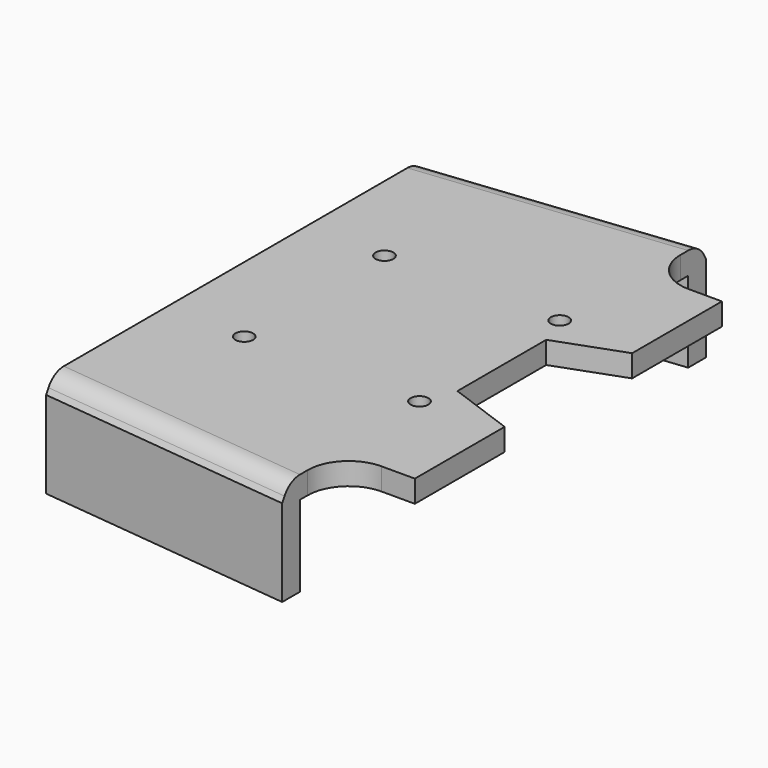
from build123d import *

# Parameters (mm, degrees)
SKETCH047_R          = 0.8
POCKET027_DEPTH      = 6.3010001
POCKET027_DEPTH_BACK = 3.0010001
POCKET028_DEPTH      = 6.3010001
POCKET028_DEPTH_BACK = 3.0010001
POCKET030_DEPTH      = 123.0422530554
POCKET030_DEPTH_BACK = 119.7422530554


with BuildPart() as part:
    # Sketch046 → AdditiveLoft section 0
    with BuildSketch(Plane.YZ.offset(-15)):
        with BuildLine():
            Line((-19.35, 3), (19.35, 3))
            ThreePointArc((21.0820508076, 2), (20.35, 2.7320508076), (19.35, 3))
            Line((21.0820508076, 2), (21.35, 1.5358983849))
            Line((21.35, 1.5358983849), (21.35, -6.3))
            Line((21.35, -6.3), (19.35, -6.3))
            Line((19.35, 1), (19.35, -6.3))
            Line((-19.35, 1), (19.35, 1))
            Line((-19.35, -6.3), (-19.35, 1))
            Line((-19.35, -6.3), (-21.35, -6.3))
            Line((-21.35, -6.3), (-21.35, 1.5358983849))
            Line((-21.0820508076, 2), (-21.35, 1.5358983849))
            ThreePointArc((-19.35, 3), (-20.35, 2.7320508076), (-21.0820508076, 2))
        make_face()
    # Sketch058 → AdditiveLoft section 1
    with BuildSketch(Plane.YZ.offset(15)):
        with BuildLine():
            Line((-22.6, 3), (22.6, 3))
            ThreePointArc((24.3320508076, 2), (23.6, 2.7320508076), (22.6, 3))
            Line((24.3320508076, 2), (24.6, 1.5358983849))
            Line((24.6, 1.5358983849), (24.6, -6.3))
            Line((24.6, -6.3), (22.6, -6.3))
            Line((22.6, 1), (22.6, -6.3))
            Line((-22.6, 1), (22.6, 1))
            Line((-22.6, -6.3), (-22.6, 1))
            Line((-22.6, -6.3), (-24.6, -6.3))
            Line((-24.6, -6.3), (-24.6, 1.5358983849))
            Line((-24.3320508076, 2), (-24.6, 1.5358983849))
            ThreePointArc((-22.6, 3), (-23.6, 2.7320508076), (-24.3320508076, 2))
        make_face()
    loft()

    # Sketch047 → Pocket027 (cut, two sides)
    with BuildSketch(Plane.XY) as pocket027_sk:
        with Locations((7.9, 7.9)):
            Circle(SKETCH047_R)
        with Locations((-7.9, 7.9)):
            Circle(SKETCH047_R)
        with Locations((-7.9, -7.9)):
            Circle(SKETCH047_R)
        with Locations((7.9, -7.9)):
            Circle(SKETCH047_R)
    extrude(amount=-POCKET027_DEPTH, mode=Mode.SUBTRACT)
    extrude(pocket027_sk.sketch, amount=POCKET027_DEPTH_BACK, mode=Mode.SUBTRACT)

    # Sketch048 → Pocket028 (cut, two sides)
    with BuildSketch(Plane.XY) as pocket028_sk:
        Polygon((9, 5), (16, 7.5477916399), (16, -7.5477916399), (9, -5), align=None)
    extrude(amount=-POCKET028_DEPTH, mode=Mode.SUBTRACT)
    extrude(pocket028_sk.sketch, amount=POCKET028_DEPTH_BACK, mode=Mode.SUBTRACT)

    # Sketch050 → Pocket030 (cut, two sides)
    with BuildSketch(Plane.XY) as pocket030_sk:
        with BuildLine():
            Line((8.3, 30), (18.3, 30))
            Line((18.3, 30), (18.3, 17.3))
            Line((12, 17.3), (18.3, 17.3))
            ThreePointArc((8.3, 21), (9.3837049096, 18.3837049096), (12, 17.3))
            Line((8.3, 21), (8.3, 30))
        make_face()
    pocket030 = extrude(amount=-POCKET030_DEPTH, mode=Mode.SUBTRACT) + extrude(pocket030_sk.sketch, amount=POCKET030_DEPTH_BACK, mode=Mode.SUBTRACT)

    # Mirrored011: Pocket030 across XZ
    add(pocket030.mirror(Plane.XZ), mode=Mode.SUBTRACT)


with BuildPart() as part_1:
    # Body011 placement: moved
    add(part.part.moved(Location((0, 0, 22))))


solid = part_1.part
